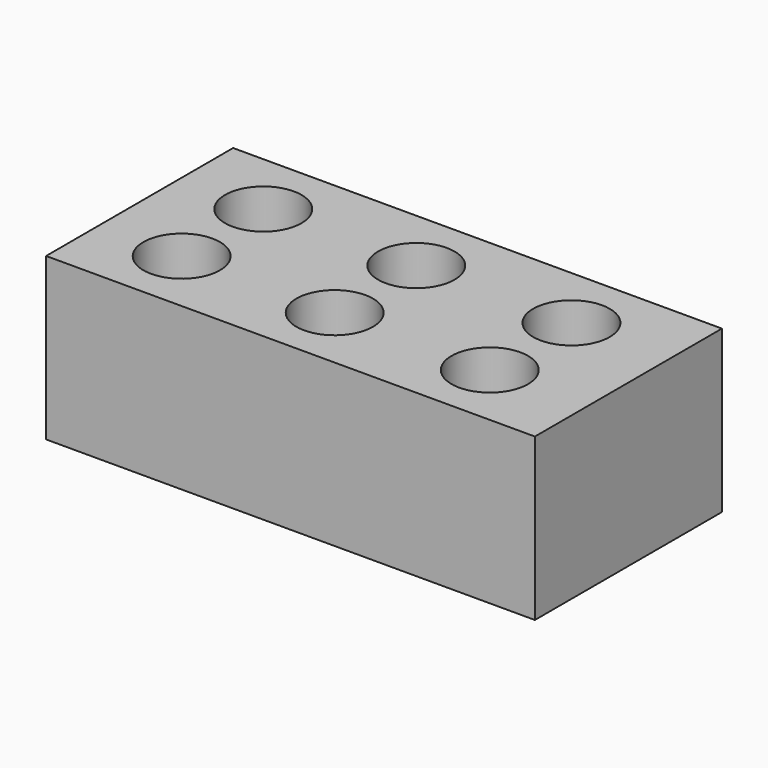
from build123d import *

# Parameters (mm, degrees)
CYLINDER001_R     = 18
CYLINDER001_DEPTH = 70
CYLINDER_R        = 18
CYLINDER_DEPTH    = 70
CYLINDER005_R     = 18
CYLINDER005_DEPTH = 70
CYLINDER004_R     = 18
CYLINDER004_DEPTH = 70
CYLINDER003_R     = 18
CYLINDER003_DEPTH = 70
CYLINDER002_R     = 18
CYLINDER002_DEPTH = 70
BOX_W             = 230
BOX_H             = 110
BOX_DEPTH         = 76


with BuildPart() as cylinder001:
    # Cylinder001 → Cylinder001 (new body)
    with BuildSketch(Plane(origin=(39, 79, 6), x_dir=(1, 0, 0), z_dir=(0, 0, 1))):
        Circle(CYLINDER001_R)
    extrude(amount=CYLINDER001_DEPTH)


with BuildPart() as fusion:
    # Cylinder → Cylinder (new body)
    with BuildSketch(Plane(origin=(39, 31, 6), x_dir=(1, 0, 0), z_dir=(0, 0, 1))):
        Circle(CYLINDER_R)
    extrude(amount=CYLINDER_DEPTH)

    # Fusion: union Cylinder001
    add(cylinder001.part)


with BuildPart() as cylinder005:
    # Cylinder005 → Cylinder005 (new body)
    with BuildSketch(Plane(origin=(39, 79, 6), x_dir=(1, 0, 0), z_dir=(0, 0, 1))):
        Circle(CYLINDER005_R)
    extrude(amount=CYLINDER005_DEPTH)


with BuildPart() as fusion002:
    # Cylinder004 → Cylinder004 (new body)
    with BuildSketch(Plane(origin=(39, 31, 6), x_dir=(1, 0, 0), z_dir=(0, 0, 1))):
        Circle(CYLINDER004_R)
    extrude(amount=CYLINDER004_DEPTH)

    # Fusion002: union Cylinder005
    add(cylinder005.part)


with BuildPart() as fusion002_1:
    # Fusion002 placement: moved
    add(fusion002.part.moved(Location((145, 0, 0))))


with BuildPart() as cylinder003:
    # Cylinder003 → Cylinder003 (new body)
    with BuildSketch(Plane(origin=(39, 79, 6), x_dir=(1, 0, 0), z_dir=(0, 0, 1))):
        Circle(CYLINDER003_R)
    extrude(amount=CYLINDER003_DEPTH)


with BuildPart() as fusion003:
    # Cylinder002 → Cylinder002 (new body)
    with BuildSketch(Plane(origin=(39, 31, 6), x_dir=(1, 0, 0), z_dir=(0, 0, 1))):
        Circle(CYLINDER002_R)
    extrude(amount=CYLINDER002_DEPTH)

    # Fusion001: union Cylinder003
    add(cylinder003.part)


with BuildPart() as fusion003_1:
    # Fusion001 placement: moved
    add(fusion003.part.moved(Location((72, 0, 0))))

    # Fusion003: union Fusion, Fusion002
    add(fusion.part)
    add(fusion002_1.part)


with BuildPart() as cut:
    # Box → Box (new body)
    with BuildSketch(Plane.XY):
        with Locations((115, 55)):
            Rectangle(BOX_W, BOX_H)
    extrude(amount=BOX_DEPTH)

    # Cut: cut Fusion003
    add(fusion003_1.part, mode=Mode.SUBTRACT)


solid = cut.part
